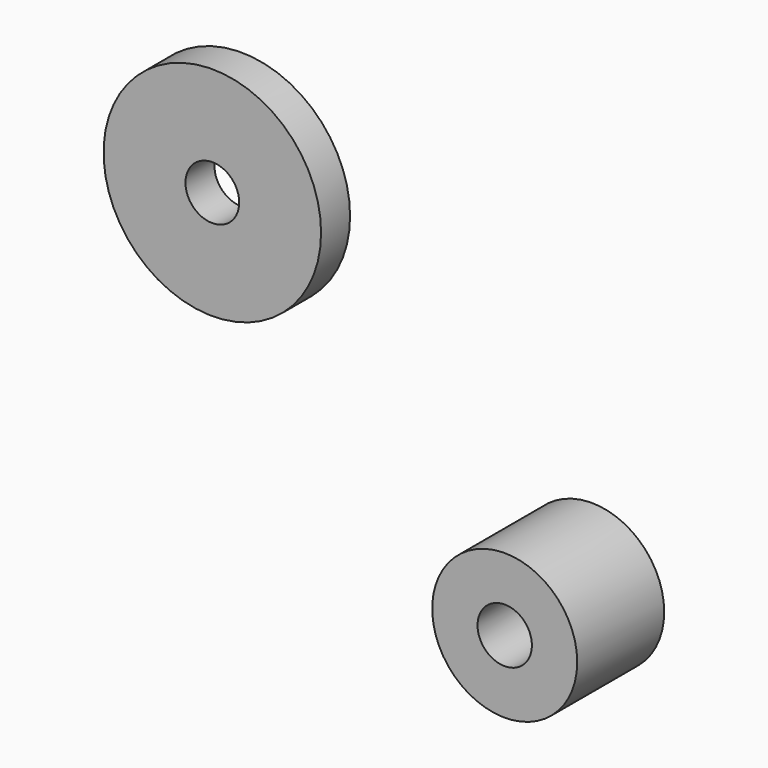
from build123d import *

# Parameters (mm, degrees)
F0_R     = 25.4
F0_R_2   = 9.525
F1_DEPTH = 19.05
F3_R     = 38.1
F3_R_2   = 9.415919
F4_DEPTH = 12.7


with BuildPart() as f1:
    # F0 (on Front) → F1 (new body)
    with BuildSketch(Plane.XZ):
        Circle(F0_R)
        Circle(F0_R_2, mode=Mode.SUBTRACT)
    extrude(amount=F1_DEPTH)

    # F2: F1 across plane


with BuildPart() as f1_1:
    add(f1.part)
    add(f1.part.mirror(Plane.XZ))


with BuildPart() as f4:
    # F3 (on Front) → F4 (new body)
    with BuildSketch(Plane.XZ):
        with Locations((-107.524708, 99.015534)):
            Circle(F3_R)
        with Locations((-107.524708, 99.015534)):
            Circle(F3_R_2, mode=Mode.SUBTRACT)
    extrude(amount=F4_DEPTH)


solid = Compound([f1_1.part, f4.part])
